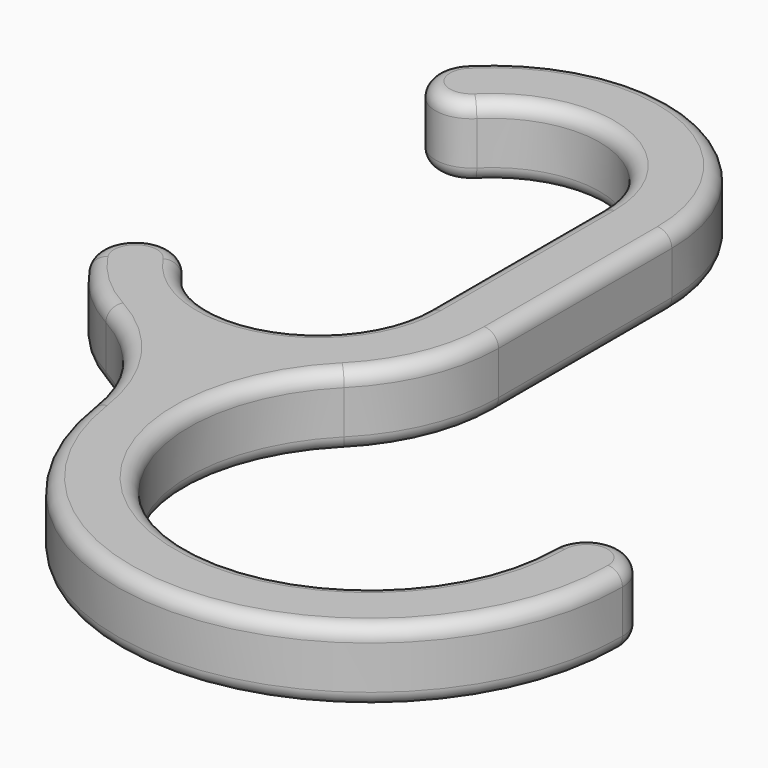
from build123d import *

# Parameters (mm, degrees)
PAD_DEPTH = 5
FILLET_R  = 1


with BuildPart() as part:
    # Sketch → Pad (new body)
    with BuildSketch(Plane.XY):
        with BuildLine():
            ThreePointArc((12.45, 7.5), (4.764409, 19.0023), (-8.803479, 16.303479))
            ThreePointArc((-8.803479, 16.303479), (-8.803479, 12.767946), (-5.267946, 12.767946))
            ThreePointArc((7.45, 7.5), (2.850992, 14.382903), (-5.267946, 12.767946))
            Line((7.45, 7.5), (7.45, -7.5))
            ThreePointArc((-6.22517, -11.592648), (2.135999, -14.637227), (7.45, -7.5))
            ThreePointArc((-6.22517, -11.592648), (-9.687524, -10.877036), (-10.403136, -14.339391))
            ThreePointArc((-10.403136, -14.339391), (-8.458239, -16.635683), (-6.019193, -18.398248))
            ThreePointArc((0.314453, -27.591103), (-1.769128, -22.248349), (-6.019193, -18.398248))
            ThreePointArc((0.314453, -27.591103), (18.869706, -42.599179), (35.14227, -25.142278))
            ThreePointArc((35.14227, -25.142278), (32.64227, -22.642278), (30.14227, -25.142278))
            ThreePointArc((8.803436, -16.303443), (12.858727, -36.690772), (30.14227, -25.142278))
            ThreePointArc((8.803436, -16.303443), (11.502249, -12.264389), (12.449956, -7.5))
            Line((12.45, 7.5), (12.449956, -7.5))
        make_face()
    extrude(amount=PAD_DEPTH)

    # Fillet
    fillet_edges = [part.edges().sort_by_distance(p)[0] for p in [
        (8.803436, -16.303443, 2.5),
        (12.449956, -7.5, 2.5),
        (11.502249, -12.264389, 0),
        (11.502249, -12.264389, 5),
        (12.45, 7.5, 2.5),
        (12.449978, 0, 0),
        (12.449978, 0, 5),
        (-8.803479, 16.303479, 2.5),
        (4.764409, 19.0023, 0),
        (4.764409, 19.0023, 5),
        (-5.267946, 12.767946, 2.5),
        (-8.803479, 12.767946, 0),
        (-8.803479, 12.767946, 5),
        (7.45, 7.5, 2.5),
        (2.850992, 14.382903, 0),
        (2.850992, 14.382903, 5),
        (7.45, -7.5, 2.5),
        (7.45, 0, 0),
        (7.45, 0, 5),
        (-6.22517, -11.592648, 2.5),
        (2.135999, -14.637227, 0),
        (2.135999, -14.637227, 5),
        (-10.403136, -14.339391, 2.5),
        (-9.687524, -10.877036, 0),
        (-9.687524, -10.877036, 5),
        (-6.019193, -18.398248, 2.5),
        (-8.458239, -16.635683, 0),
        (-8.458239, -16.635683, 5),
        (0.314453, -27.591103, 2.5),
        (-1.769128, -22.248349, 0),
        (-1.769128, -22.248349, 5),
        (35.14227, -25.142278, 2.5),
        (18.869706, -42.599179, 0),
        (18.869706, -42.599179, 5),
        (30.14227, -25.142278, 2.5),
        (32.64227, -22.642278, 0),
        (32.64227, -22.642278, 5),
        (12.858727, -36.690772, 0),
        (12.858727, -36.690772, 5),
    ]]
    fillet(fillet_edges, radius=FILLET_R)


solid = part.part
